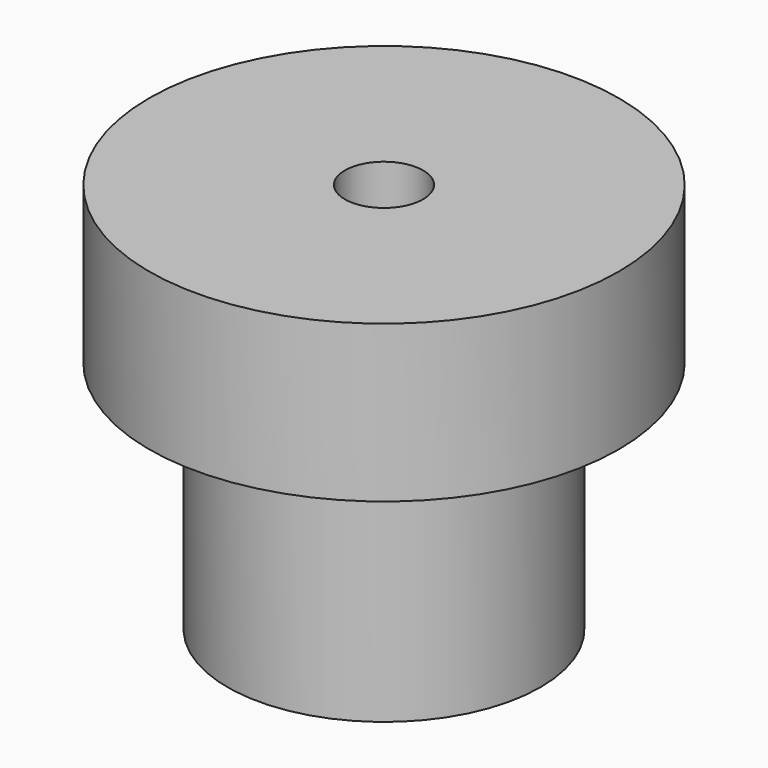
from build123d import *

# Parameters (mm, degrees)
F3_D = 3.175


with BuildPart() as f1:
    # F0 (on Front) → F1 (revolve)
    with BuildSketch(Plane.XZ):
        Polygon((-6.35, 0), (0, 0), (0, 15.875), (-9.525, 15.875), (-9.525, 9.525), (-6.35, 9.525), align=None)
    revolve(axis=Axis((0, 0, 7.9375), (0, 0, 1)))

    # F3 (through all)
    with Locations(Plane.XY.offset(15.875)):
        with Locations((0, 0)):
            Hole(F3_D / 2)


solid = f1.part
